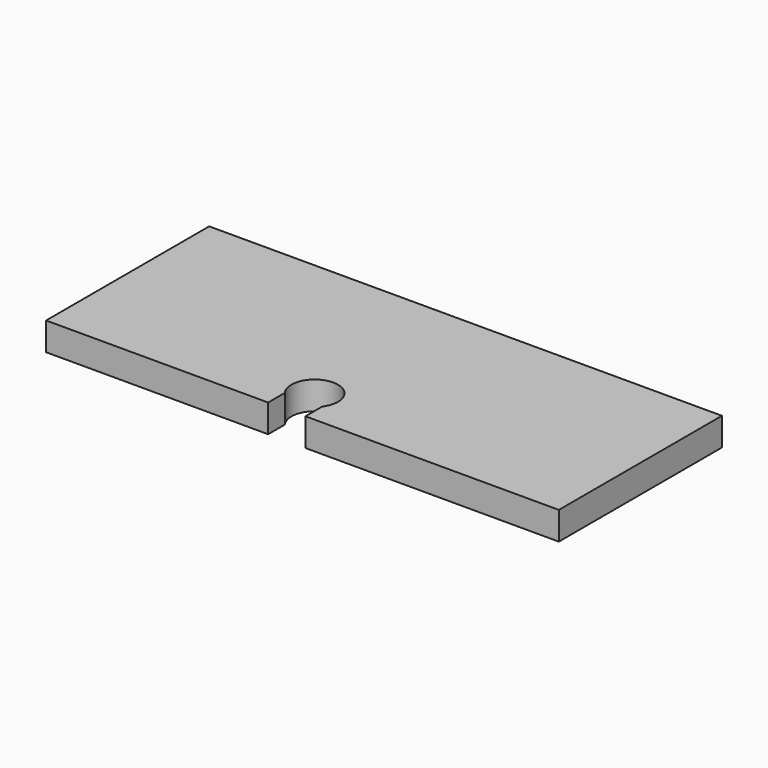
from build123d import *

# Parameters (mm, degrees)
F0_W     = 69.861871
F0_H     = 27.773832
F1_DEPTH = 3.81
F3_DEPTH = 25.4


with BuildPart() as f1:
    # F0 (on Top) → F1 (new body)
    with BuildSketch(Plane.XY):
        with Locations((2.136449, -1.815982)):
            Rectangle(F0_W, F0_H)
    extrude(amount=F1_DEPTH)

    # F2 (on face) → F3 (cut)
    with BuildSketch(Plane.XY.offset(3.81)):
        with BuildLine():
            Line((2.54, -15.702898), (2.54, -12.849559))
            ThreePointArc((2.54, -12.849559), (0, -7.769559), (-2.54, -12.849559))
            Line((-2.54, -12.849559), (-2.54, -15.702898))
            Line((-2.54, -15.702898), (2.54, -15.702898))
        make_face()
    extrude(amount=-F3_DEPTH, mode=Mode.SUBTRACT)


solid = f1.part
